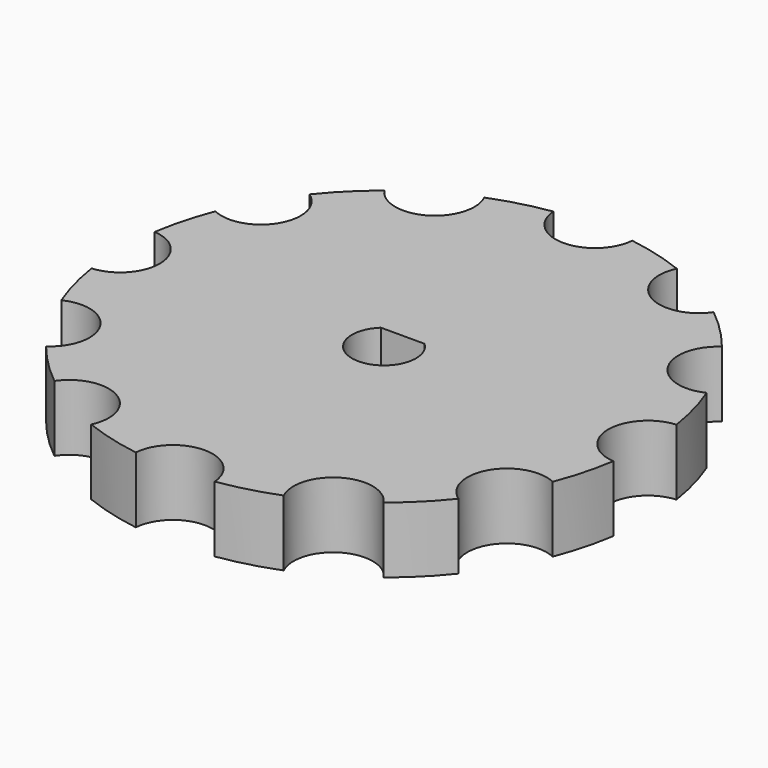
from build123d import *

# Parameters (mm, degrees)
F1_DEPTH = 5
F3_DEPTH = 5.001


with BuildPart() as f1:
    # F0 (on Top) → F1 (new body)
    with BuildSketch(Plane.XY):
        with BuildLine():
            ThreePointArc((19.775, -2.9915506013), (17, 0), (19.775, 2.9915506013))
            ThreePointArc((19.775, 2.9915506013), (19.3185165258, 5.1763809021), (18.6214276605, 7.2967411826))
            ThreePointArc((18.6214276605, 7.2967411826), (14.7224318643, 8.5), (15.6298770592, 12.4782588174))
            ThreePointArc((15.6298770592, 12.4782588174), (14.1421356237, 14.1421356237), (12.4782588174, 15.6298770592))
            ThreePointArc((12.4782588174, 15.6298770592), (8.5, 14.7224318643), (7.2967411826, 18.6214276605))
            ThreePointArc((7.2967411826, 18.6214276605), (5.176380902, 19.3185165258), (2.9915506013, 19.775))
            ThreePointArc((2.9915506013, 19.775), (0, 17), (-2.9915506013, 19.775))
            ThreePointArc((-2.9915506013, 19.775), (-5.176380902, 19.3185165258), (-7.2967411826, 18.6214276605))
            ThreePointArc((-7.2967411826, 18.6214276605), (-7.075125947, 17.9876750517), (-7, 17.3205080757))
            ThreePointArc((-7, 17.3205080757), (-9.1153465233, 14.4539093549), (-12.4782588174, 15.6298770592))
            ThreePointArc((-12.4782588174, 15.6298770592), (-14.1421356237, 14.1421356237), (-15.6298770592, 12.4782588174))
            ThreePointArc((-15.6298770592, 12.4782588174), (-14.6679722089, 11.401446922), (-14.3205080757, 10))
            ThreePointArc((-14.3205080757, 10), (-15.7240680916, 7.4600434301), (-18.6214276605, 7.2967411826))
            ThreePointArc((-18.6214276605, 7.2967411826), (-19.3185165258, 5.1763809021), (-19.775, 2.9915506013))
            ThreePointArc((-19.775, 2.9915506013), (-17.8005682552, 2.0402205763), (-17, 0))
            ThreePointArc((-17, 0), (-17.8005682552, -2.0402205763), (-19.775, -2.9915506013))
            ThreePointArc((-19.775, -2.9915506013), (-19.3185165258, -5.1763809021), (-18.6214276605, -7.2967411826))
            ThreePointArc((-18.6214276605, -7.2967411826), (-15.7240680916, -7.4600434301), (-14.3205080757, -10))
            ThreePointArc((-14.3205080757, -10), (-14.6679722089, -11.401446922), (-15.6298770592, -12.4782588174))
            ThreePointArc((-15.6298770592, -12.4782588174), (-14.1421356237, -14.1421356237), (-12.4782588174, -15.6298770592))
            ThreePointArc((-12.4782588174, -15.6298770592), (-9.1153465233, -14.4539093549), (-7, -17.3205080757))
            ThreePointArc((-7, -17.3205080757), (-7.075125947, -17.9876750517), (-7.2967411826, -18.6214276605))
            ThreePointArc((-7.2967411826, -18.6214276605), (-5.176380902, -19.3185165258), (-2.9915506013, -19.775))
            ThreePointArc((-2.9915506013, -19.775), (0, -17), (2.9915506013, -19.775))
            ThreePointArc((2.9915506013, -19.775), (5.176380902, -19.3185165258), (7.2967411826, -18.6214276605))
            ThreePointArc((7.2967411826, -18.6214276605), (8.5, -14.7224318643), (12.4782588174, -15.6298770592))
            ThreePointArc((12.4782588174, -15.6298770592), (14.1421356237, -14.1421356237), (15.6298770592, -12.4782588174))
            ThreePointArc((15.6298770592, -12.4782588174), (14.7224318643, -8.5), (18.6214276605, -7.2967411826))
            ThreePointArc((18.6214276605, -7.2967411826), (19.3185165258, -5.1763809021), (19.775, -2.9915506013))
        make_face()
    extrude(amount=F1_DEPTH)

    # F2 (on face) → F3 (cut, through all)
    with BuildSketch(Plane.XY.offset(5)):
        with BuildLine():
            Line((1.6522711642, 1.775), (-1.6522711642, 1.775))
            ThreePointArc((-1.6522711642, 1.775), (0, -2.425), (1.6522711642, 1.775))
        make_face()
    extrude(amount=-F3_DEPTH, mode=Mode.SUBTRACT)


solid = f1.part
